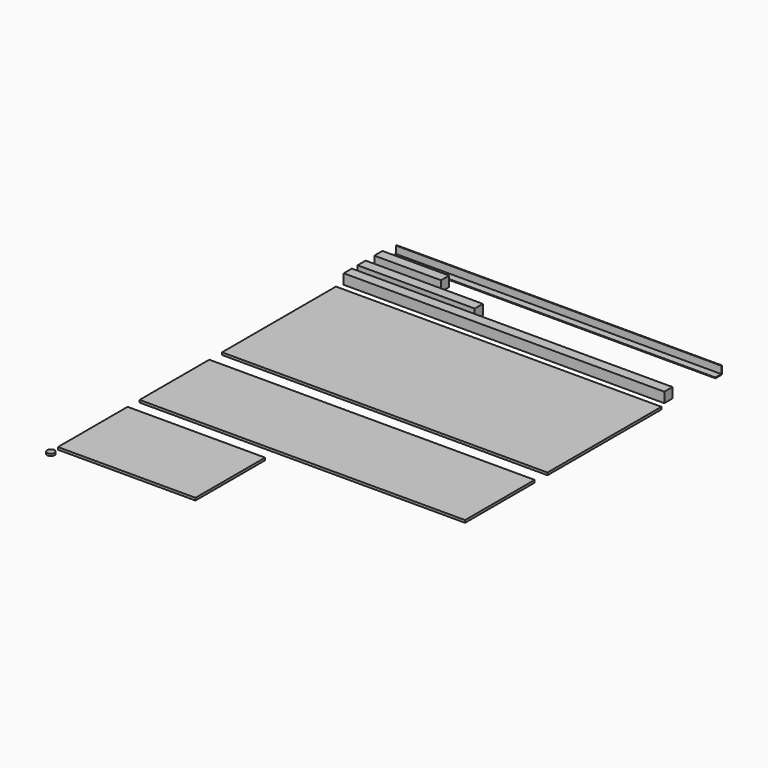
from build123d import *

# Parameters (mm, degrees)
F4_W      = 1576
F4_H      = 50
F5_DEPTH  = 50
F6_W      = 576
F6_H      = 50
F7_DEPTH  = 50
F8_W      = 328
F8_H      = 50
F9_DEPTH  = 50
F10_W     = 1600
F10_H     = 700
F11_DEPTH = 12
F12_W     = 1600
F12_H     = 428
F13_DEPTH = 12
F14_W     = 676
F14_H     = 428
F15_DEPTH = 12
F17_DEPTH = 1600
F18_R     = 18.5
F19_DEPTH = 10


with BuildPart() as f5:
    # F4 (on Top) → F5 (new body)
    with BuildSketch(Plane.XY):
        with Locations((788, 25)):
            Rectangle(F4_W, F4_H)
    extrude(amount=F5_DEPTH)


with BuildPart() as f7:
    # F6 (on Top) → F7 (new body)
    with BuildSketch(Plane.XY):
        with Locations((288, 110.1249895759)):
            Rectangle(F6_W, F6_H)
    extrude(amount=F7_DEPTH)


with BuildPart() as f9:
    # F8 (on Top) → F9 (new body)
    with BuildSketch(Plane.XY):
        with Locations((164, 212.9289425771)):
            Rectangle(F8_W, F8_H)
    extrude(amount=F9_DEPTH)


with BuildPart() as f11:
    # F10 (on Top) → F11 (new body)
    with BuildSketch(Plane.XY):
        with Locations((800, -397.8640609177)):
            Rectangle(F10_W, F10_H)
    extrude(amount=F11_DEPTH)


with BuildPart() as f13:
    # F12 (on Top) → F13 (new body)
    with BuildSketch(Plane.XY):
        with Locations((800, -1040.4186293055)):
            Rectangle(F12_W, F12_H)
    extrude(amount=F13_DEPTH)


with BuildPart() as f15:
    # F14 (on Top) → F15 (new body)
    with BuildSketch(Plane.XY):
        with Locations((338, -1542.2805274396)):
            Rectangle(F14_W, F14_H)
    extrude(amount=F15_DEPTH)


with BuildPart() as f17:
    # F16 (on Right) → F17 (new body)
    with BuildSketch(Plane.YZ):
        Polygon((284.1255764412, 0), (324.1255764412, 0), (324.1255764412, 40), (320.1255764412, 40), (320.1255764412, 4), (284.1255764412, 4), align=None)
    extrude(amount=F17_DEPTH)


with BuildPart() as f19:
    # F18 (on Top) → F19 (new body)
    with BuildSketch(Plane.XY):
        with Locations((0, -1799.645781517)):
            Circle(F18_R)
    extrude(amount=F19_DEPTH)


solid = Compound([f5.part, f7.part, f9.part, f11.part, f13.part, f15.part, f17.part, f19.part])
